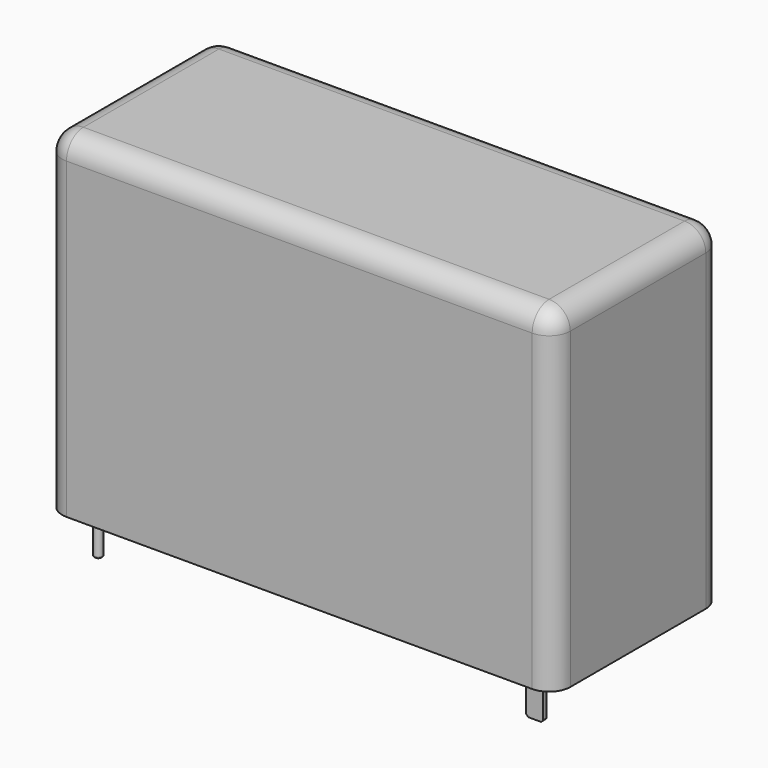
from build123d import *

# Parameters (mm, degrees)
SKETCH_W        = 24
SKETCH_H        = 10
PAD_DEPTH       = 15.8
SKETCH001_R     = 0.2
SKETCH001_W     = 0.8
SKETCH001_H     = 0.2
PAD001_DEPTH    = 2
FILLET_R        = 1
FILLET001_R     = 1
FILLET002_R     = 1
FILLET003_R     = 1
CHAMFER_SIZE    = 0.1
CHAMFER001_SIZE = 0.1
CHAMFER002_SIZE = 0.1
CHAMFER003_SIZE = 0.1
FILLET004_R     = 0.1


with BuildPart() as part:
    # Sketch → Pad (new body)
    with BuildSketch(Plane.XY):
        with Locations((12, -5)):
            Rectangle(SKETCH_W, SKETCH_H)
    extrude(amount=PAD_DEPTH)

    # Sketch001 → Pad001 (join)
    with BuildSketch(Plane.XY):
        with Locations((1.5, -1.25)):
            Circle(SKETCH001_R)
        with Locations((1.5, -8.75)):
            Circle(SKETCH001_R)
        with Locations((18.7, -1.25)):
            Rectangle(SKETCH001_W, SKETCH001_H)
        with Locations((22.2, -8.75)):
            Rectangle(SKETCH001_W, SKETCH001_H)
    extrude(amount=-PAD001_DEPTH)

    # Fillet
    fillet_edges = [part.edges().sort_by_distance(p)[0] for p in [
        (12, -10, 15.8),
    ]]
    fillet(fillet_edges, radius=FILLET_R)

    # Fillet001
    fillet001_edges = [part.edges().sort_by_distance(p)[0] for p in [
        (24, -4.5, 15.8),
    ]]
    fillet(fillet001_edges, radius=FILLET001_R)

    # Fillet002
    fillet002_edges = [part.edges().sort_by_distance(p)[0] for p in [
        (11.5, 0, 15.8),
    ]]
    fillet(fillet002_edges, radius=FILLET002_R)

    # Fillet003
    fillet003_edges = [part.edges().sort_by_distance(p)[0] for p in [
        (0, -5, 15.8),
    ]]
    fillet(fillet003_edges, radius=FILLET003_R)

    # Chamfer
    chamfer_edges = [part.edges().sort_by_distance(p)[0] for p in [
        (19.1, -1.25, -2),
    ]]
    chamfer(chamfer_edges, length=CHAMFER_SIZE)

    # Chamfer001
    chamfer001_edges = [part.edges().sort_by_distance(p)[0] for p in [
        (18.3, -1.25, -2),
    ]]
    chamfer(chamfer001_edges, length=CHAMFER001_SIZE)

    # Chamfer002
    chamfer002_edges = [part.edges().sort_by_distance(p)[0] for p in [
        (21.8, -8.75, -2),
    ]]
    chamfer(chamfer002_edges, length=CHAMFER002_SIZE)

    # Chamfer003
    chamfer003_edges = [part.edges().sort_by_distance(p)[0] for p in [
        (22.6, -8.75, -2),
    ]]
    chamfer(chamfer003_edges, length=CHAMFER003_SIZE)

    # Fillet004
    fillet004_edges = [part.edges().sort_by_distance(p)[0] for p in [
        (1.3, -8.75, -2),
        (1.3, -1.25, -2),
    ]]
    fillet(fillet004_edges, radius=FILLET004_R)


solid = part.part
